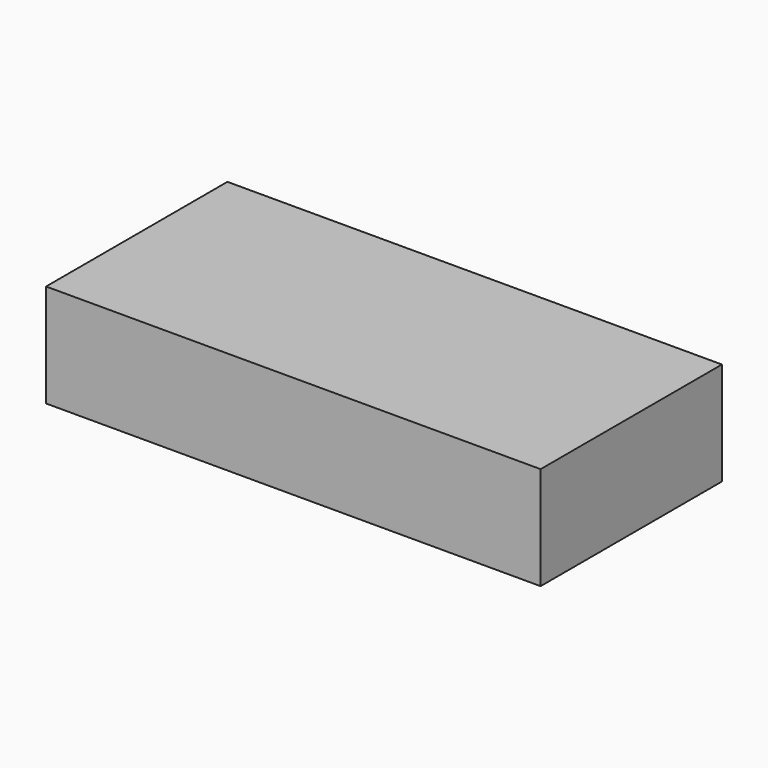
from build123d import *

# Parameters (mm, degrees)
SKETCH_W  = 24
SKETCH_H  = 11
PAD_DEPTH = 5


with BuildPart() as part:
    # Sketch → Pad (new body)
    with BuildSketch(Plane.XY):
        with Locations((0, 5.5)):
            Rectangle(SKETCH_W, SKETCH_H)
    extrude(amount=PAD_DEPTH)


solid = part.part
